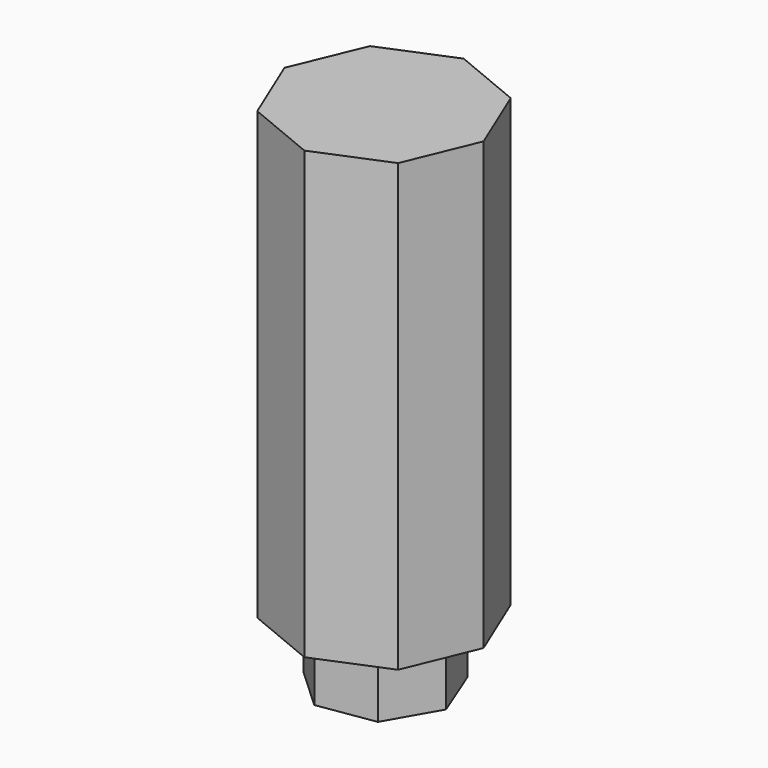
from build123d import *

# Parameters (mm, degrees)
F1_DEPTH = 152.4
F3_DEPTH = 173.99


with BuildPart() as f1:
    # F0 (on Top) → F1 (new body)
    with BuildSketch(Plane.XY):
        Polygon((24.0552005179, -24.0552005179), (34.0191908181, 0), (24.0552005179, 24.0552005179), (0, 34.0191908181), (-24.0552005179, 24.0552005179), (-34.0191908181, 0), (-24.0552005179, -24.0552005179), (0, -34.0191908181), align=None)
    extrude(amount=F1_DEPTH)

    # F2 (on face) → F3 (join)
    with BuildSketch(Plane.XY.offset(152.4)):
        Polygon((-3.4393439428, 22.2672511014), (-19.5536338125, 11.1944166036), (-20.9436385999, -8.3080419212), (-6.5626563492, -21.5543754261), (12.7601399862, -18.5698246061), (22.4742906526, -1.6018171023), (15.2648420656, 16.5723913507), align=None)
    extrude(amount=-F3_DEPTH)


solid = f1.part
